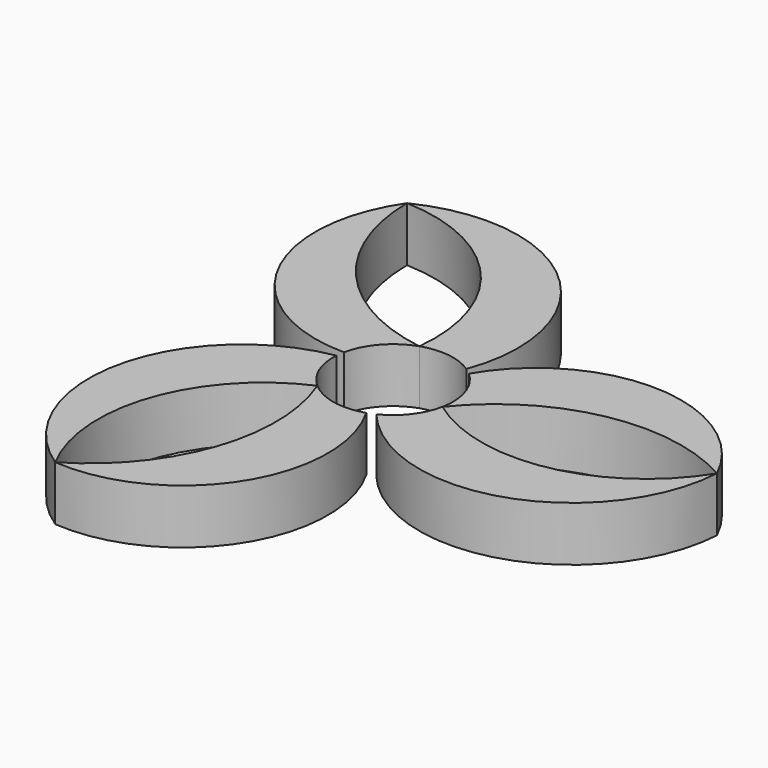
from build123d import *

# Parameters (mm, degrees)
F1_DEPTH = 10


with BuildPart() as f1:
    # F0 (on Top) → F1 (new body)
    with BuildSketch(Plane.XY):
        with BuildLine():
            ThreePointArc((-10.770767, 2.23396), (-8.231901, 7.296287), (-3.511037, 10.424616))
            ThreePointArc((-3.511037, 10.424616), (-24.242955, 21.815931), (-32.600287, 43.945763))
            ThreePointArc((-32.600287, 43.945763), (-34.276709, 16.500373), (-10.770767, 2.23396))
        make_face()
        with BuildLine():
            ThreePointArc((-3.511037, 10.424616), (1.463642, 10.90219), (6.136212, 9.129452))
            ThreePointArc((6.136212, 9.129452), (-1.433265, 39.664878), (-32.600287, 43.945763))
            ThreePointArc((-32.600287, 43.945763), (-10.746179, 33.528272), (-3.511037, 10.424616))
        make_face()
        with BuildLine():
            ThreePointArc((7.32005, 8.210778), (10.037942, 4.498858), (11, 0))
            ThreePointArc((11, 0), (10.945741, -1.091213), (10.783501, -2.171661))
            ThreePointArc((10.783501, -2.171661), (31.014628, 10.087049), (54.358291, 6.259795))
            ThreePointArc((54.358291, 6.259795), (31.428097, 21.434314), (7.32005, 8.210778))
        make_face()
        with BuildLine():
            ThreePointArc((54.358291, 6.259795), (34.409424, -7.457672), (10.783501, -2.171661))
            ThreePointArc((10.783501, -2.171661), (8.709753, -6.718646), (4.838232, -9.878842))
            ThreePointArc((4.838232, -9.878842), (35.067425, -18.591195), (54.358291, 6.259795))
        make_face()
        with BuildLine():
            ThreePointArc((-21.758004, -50.205559), (2.848612, -37.934687), (3.450718, -10.444738))
            ThreePointArc((3.450718, -10.444738), (-2.20282, -10.777179), (-7.272464, -8.252955))
            ThreePointArc((-7.272464, -8.252955), (-6.771673, -31.90298), (-21.758004, -50.205559))
        make_face()
        with BuildLine():
            ThreePointArc((-21.758004, -50.205559), (-23.663245, -26.0706), (-7.272464, -8.252955))
            ThreePointArc((-7.272464, -8.252955), (-10.173395, -4.183544), (-10.974444, 0.749389))
            ThreePointArc((-10.974444, 0.749389), (-33.63416, -21.073683), (-21.758004, -50.205559))
        make_face()
    extrude(amount=F1_DEPTH)


solid = f1.part
